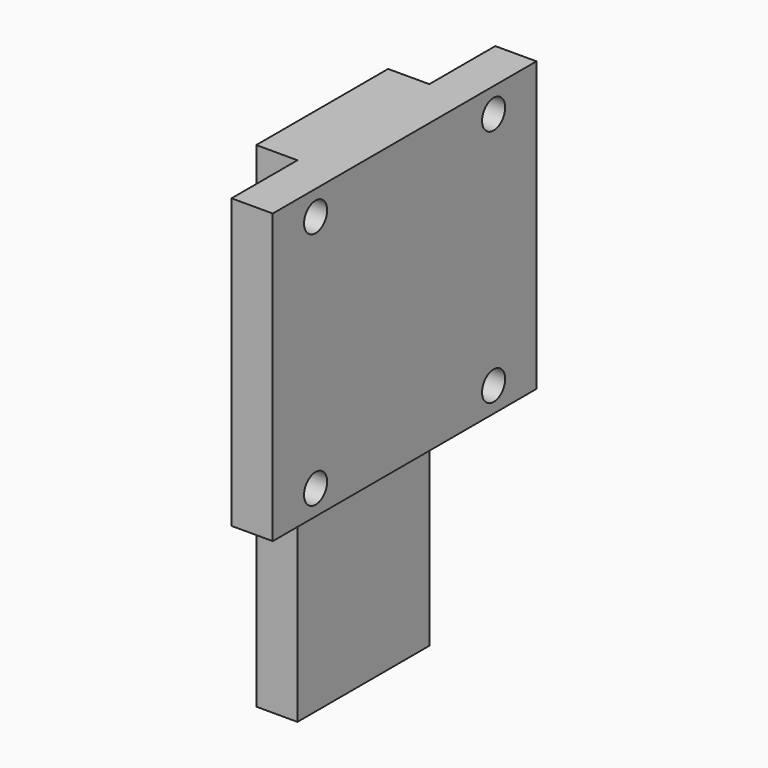
from build123d import *

# Parameters (mm, degrees)
F0_W     = 5
F0_H     = 20
F1_DEPTH = 60
F2_W     = 10
F2_H     = 35
F2_R     = 1.75
F2_W_2   = 20
F3_DEPTH = 5
F5_D     = 3
F5_DEPTH = 10
F5_TIP   = 0.9012909285


with BuildPart() as f1:
    # F0 (on Top) → F1 (new body)
    with BuildSketch(Plane.XY):
        Rectangle(F0_W, F0_H)
    extrude(amount=F1_DEPTH)

    # F2 (on face) → F3 (join)
    with BuildSketch(Plane.YZ.offset(2.5)):
        with Locations((15, 42.5)):
            Rectangle(F2_W, F2_H)
        with Locations((13.5, 28)):
            Circle(F2_R, mode=Mode.SUBTRACT)
        with Locations((13.5, 57)):
            Circle(F2_R, mode=Mode.SUBTRACT)
        with Locations((-15, 42.5)):
            Rectangle(F2_W, F2_H)
        with Locations((-13.5, 28)):
            Circle(F2_R, mode=Mode.SUBTRACT)
        with Locations((-13.5, 57)):
            Circle(F2_R, mode=Mode.SUBTRACT)
        with Locations((0, 42.5)):
            Rectangle(F2_W_2, F2_H)
    extrude(amount=F3_DEPTH)

    # F5
    with Locations(Plane(origin=(0, 0, 0), x_dir=(1, 0, 0), z_dir=(0, 0, -1))):
        with Locations((0, 0)):
            Hole(F5_D / 2, depth=F5_DEPTH)
            with Locations((0, 0, -(F5_DEPTH + F5_TIP / 2))):  # 118° drill point
                Cone(0, F5_D / 2, F5_TIP, mode=Mode.SUBTRACT)


solid = f1.part
